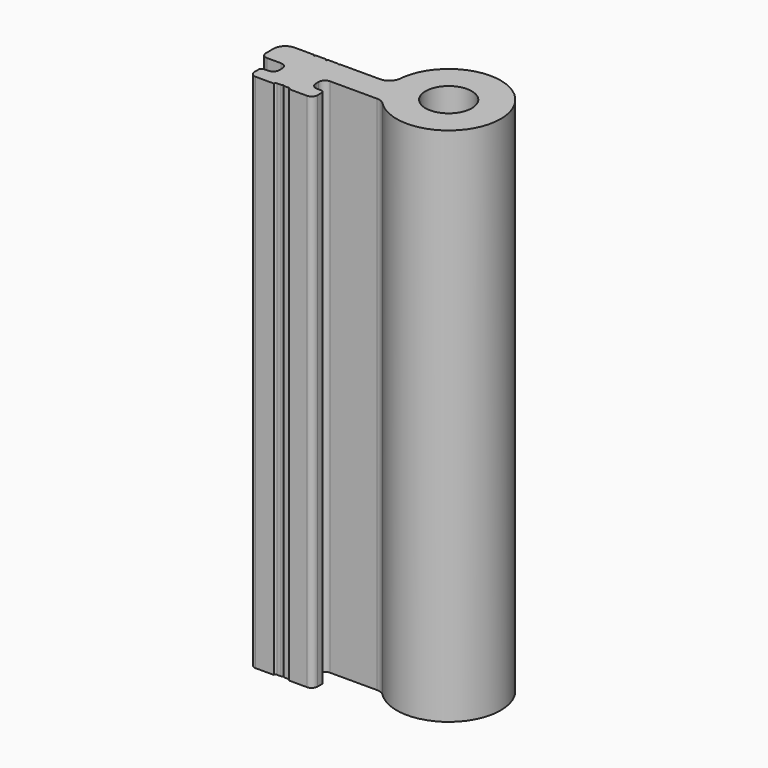
from build123d import *

# Parameters (mm, degrees)
F0_R     = 4
F1_DEPTH = 45
F2_R     = 2


with BuildPart() as f1:
    # F0 (on Top) → F1 (new body, symmetric)
    with BuildSketch(Plane.XY):
        with BuildLine():
            ThreePointArc((-6.8818602136, -5.8), (3.0873336455, -8.4538967915), (9, 0))
            ThreePointArc((9, 0), (-0.5510337779, 8.9831153714), (-8.932524839, -1.1))
            ThreePointArc((-8.932524839, -1.1), (-8.2490116771, -3.5991396682), (-6.8818602136, -5.8))
        make_face()
        Circle(F0_R, mode=Mode.SUBTRACT)
        with BuildLine():
            ThreePointArc((-6.8818602136, -5.8), (-8.2490116771, -3.5991396682), (-8.932524839, -1.1))
            Line((-8.932524839, -1.1), (-17.7, -1.1))
            ThreePointArc((-17.7, -1.1), (-17.9121320344, -1.1878679656), (-18, -1.4))
            ThreePointArc((-18, -1.4), (-18.0878679656, -1.1878679656), (-18.3, -1.1))
            Line((-18.3, -1.1), (-19.8, -1.1))
            ThreePointArc((-19.8, -1.1), (-20.0121320344, -1.1878679656), (-20.1, -1.4))
            ThreePointArc((-20.1, -1.4), (-20.1878679656, -1.1878679656), (-20.4, -1.1))
            Line((-20.4, -1.1), (-21.7159694135, -1.1))
            Line((-21.7159694135, -1.1), (-21.9, -1.1))
            ThreePointArc((-21.9, -1.1), (-22.1121320344, -1.1878679656), (-22.2, -1.4))
            ThreePointArc((-22.2, -1.4), (-22.2878679656, -1.1878679656), (-22.5, -1.1))
            Line((-22.5, -1.1), (-25.77, -1.1))
            ThreePointArc((-25.77, -1.1), (-27.1842135624, -1.6857864376), (-27.77, -3.1))
            Line((-27.77, -3.1), (-27.77, -4.8))
            ThreePointArc((-27.77, -4.8), (-27.4771067812, -5.5071067812), (-26.77, -5.8))
            Line((-26.77, -5.8), (-24.35, -5.8))
            ThreePointArc((-24.35, -5.8), (-23.5721825407, -6.1221825407), (-23.25, -6.9))
            Line((-23.25, -6.9), (-23.25, -7.5))
            ThreePointArc((-23.25, -7.5), (-23.5721825407, -8.2778174593), (-24.35, -8.6))
            Line((-24.35, -8.6), (-25.05, -8.6))
            ThreePointArc((-25.05, -8.6), (-25.4035533906, -8.7464466094), (-25.55, -9.1))
            Line((-25.55, -9.1), (-25.55, -10.0435914154))
            ThreePointArc((-25.55, -10.0435914154), (-25.2571067812, -10.7506981966), (-24.55, -11.0435914154))
            Line((-24.55, -11.0435914154), (-21.4, -11.0435914154))
            ThreePointArc((-21.4, -11.0435914154), (-21.3121320344, -10.8314593811), (-21.1, -10.7435914154))
            Line((-21.1, -10.7435914154), (-20.4, -10.7435914154))
            ThreePointArc((-20.4, -10.7435914154), (-20.1878679656, -10.6557234498), (-20.1, -10.4435914154))
            ThreePointArc((-20.1, -10.4435914154), (-20.0121320344, -10.6557234498), (-19.8, -10.7435914154))
            Line((-19.8, -10.7435914154), (-19.1, -10.7435914154))
            ThreePointArc((-19.1, -10.7435914154), (-18.8878679656, -10.8314593811), (-18.8, -11.0435914154))
            Line((-18.8, -11.0435914154), (-15.65, -11.0435914154))
            ThreePointArc((-15.65, -11.0435914154), (-14.9428932188, -10.7506981966), (-14.65, -10.0435914154))
            Line((-14.65, -10.0435914154), (-14.65, -9.1))
            ThreePointArc((-14.65, -9.1), (-14.7964466094, -8.7464466094), (-15.15, -8.6))
            Line((-15.15, -8.6), (-15.85, -8.6))
            ThreePointArc((-15.85, -8.6), (-16.6278174593, -8.2778174593), (-16.95, -7.5))
            Line((-16.95, -7.5), (-16.95, -6.9))
            ThreePointArc((-16.95, -6.9), (-16.6278174593, -6.1221825407), (-15.85, -5.8))
            Line((-15.85, -5.8), (-6.8818602136, -5.8))
        make_face()
    extrude(amount=F1_DEPTH, both=True)

    # F2
    f2_edges = [f1.edges().sort_by_distance(p)[0] for p in [
        (-6.88186, -5.8, 0),
        (-8.932525, -1.1, 0),
    ]]
    fillet(f2_edges, radius=F2_R)


solid = f1.part
